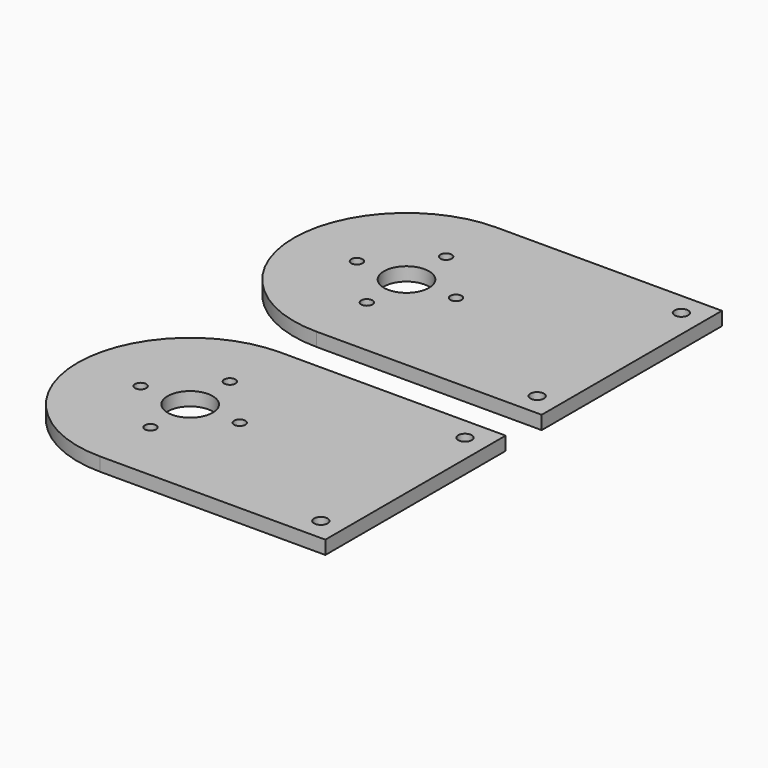
from build123d import *

# Parameters (mm, degrees)
SKETCH_R   = 1.25
SKETCH_R_2 = 1.5
SKETCH_R_3 = 5
PAD_DEPTH  = 3


with BuildPart() as part:
    # Sketch → Pad (new body)
    with BuildSketch(Plane.XY):
        with BuildLine():
            ThreePointArc((0, 25), (-25, 0), (0, -25))
            Line((50, -25), (0, -25))
            Line((50, 25), (50, -25))
            Line((0, 25), (50, 25))
        make_face()
        with Locations((0, 11)):
            Circle(SKETCH_R, mode=Mode.SUBTRACT)
        with Locations((-11, 0)):
            Circle(SKETCH_R, mode=Mode.SUBTRACT)
        with Locations((0, -11)):
            Circle(SKETCH_R, mode=Mode.SUBTRACT)
        with Locations((11, 0)):
            Circle(SKETCH_R, mode=Mode.SUBTRACT)
        with Locations((45, 20)):
            Circle(SKETCH_R_2, mode=Mode.SUBTRACT)
        with Locations((45, -20)):
            Circle(SKETCH_R_2, mode=Mode.SUBTRACT)
        Circle(SKETCH_R_3, mode=Mode.SUBTRACT)
        with BuildLine():
            ThreePointArc((0, -35), (-25, -60.000034), (6.9e-05, -85))
            Line((50, -85), (6.9e-05, -85))
            Line((50, -35), (50, -85))
            Line((0, -35), (50, -35))
        make_face()
        with Locations((0, -49)):
            Circle(SKETCH_R, mode=Mode.SUBTRACT)
        with Locations((-11, -60)):
            Circle(SKETCH_R, mode=Mode.SUBTRACT)
        with Locations((0, -71)):
            Circle(SKETCH_R, mode=Mode.SUBTRACT)
        with Locations((11, -60)):
            Circle(SKETCH_R, mode=Mode.SUBTRACT)
        with Locations((45, -40)):
            Circle(SKETCH_R_2, mode=Mode.SUBTRACT)
        with Locations((45, -80)):
            Circle(SKETCH_R_2, mode=Mode.SUBTRACT)
        with Locations((0, -60)):
            Circle(SKETCH_R_3, mode=Mode.SUBTRACT)
    extrude(amount=PAD_DEPTH)


solid = part.part
